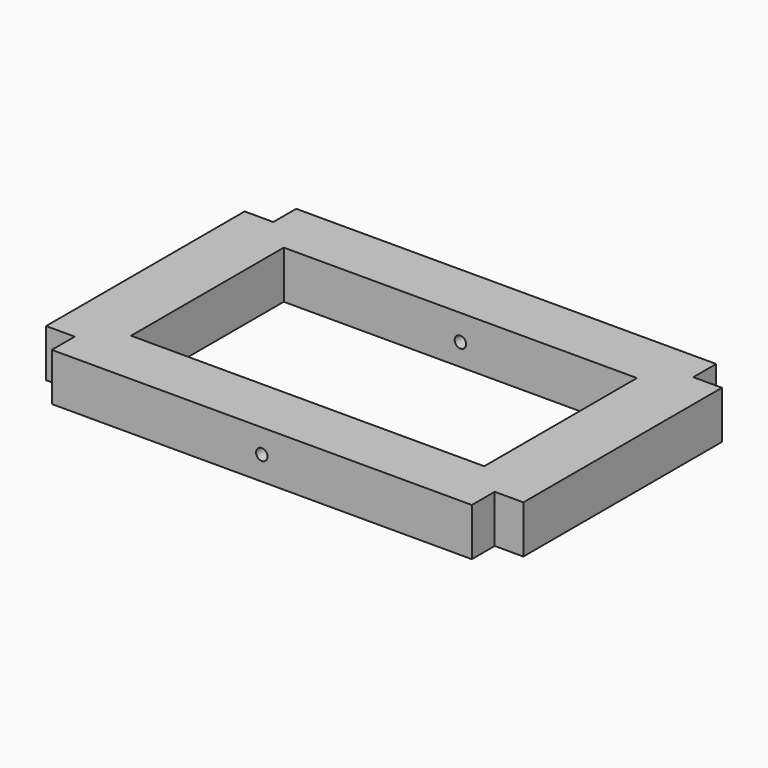
from build123d import *

# Parameters (mm, degrees)
F0_W     = 250
F0_H     = 160
F1_DEPTH = 25
F2_W     = 15
F2_H     = 15
F3_DEPTH = 25
F4_W     = 185
F4_H     = 100
F5_DEPTH = 25
F6_R     = 3
F7_DEPTH = 40
F8_R     = 3
F9_DEPTH = 40


with BuildPart() as f1:
    # F0 (on Top) → F1 (new body)
    with BuildSketch(Plane.XY):
        Rectangle(F0_W, F0_H)
    extrude(amount=F1_DEPTH)

    # F2 (on face) → F3 (cut)
    with BuildSketch(Plane.XY.offset(25)):
        with Locations((-117.5, 72.5)):
            Rectangle(F2_W, F2_H)
        with Locations((117.5, 72.5)):
            Rectangle(F2_W, F2_H)
        with Locations((117.5, -72.5)):
            Rectangle(F2_W, F2_H)
        with Locations((-117.5, -72.5)):
            Rectangle(F2_W, F2_H)
    extrude(amount=-F3_DEPTH, mode=Mode.SUBTRACT)

    # F4 (on face) → F5 (cut)
    with BuildSketch(Plane.XY.offset(25)):
        Rectangle(F4_W, F4_H)
    extrude(amount=-F5_DEPTH, mode=Mode.SUBTRACT)

    # F6 (on face) → F7 (cut)
    with BuildSketch(Plane.XZ.offset(80)):
        with Locations((0, 12.5)):
            Circle(F6_R)
    extrude(amount=-F7_DEPTH, mode=Mode.SUBTRACT)

    # F8 (on face) → F9 (cut)
    with BuildSketch(Plane(origin=(0, 80, 0), x_dir=(-1, 0, 0), z_dir=(0, 1, 0))):
        with Locations((0, 11.509229)):
            Circle(F8_R)
    extrude(amount=-F9_DEPTH, mode=Mode.SUBTRACT)


solid = f1.part
